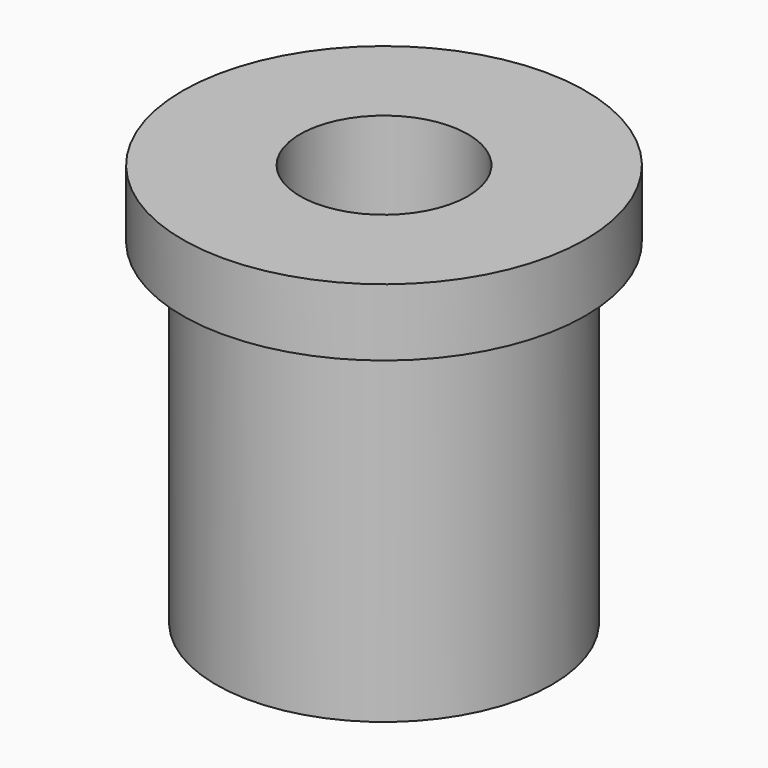
from build123d import *

# Parameters (mm, degrees)
SKETCH_R      = 5
SKETCH_R_2    = 2.5
PAD_DEPTH     = 10
SKETCH001_R   = 6
SKETCH001_R_2 = 2.5
PAD001_DEPTH  = 2


with BuildPart() as part:
    # Sketch → Pad (new body)
    with BuildSketch(Plane.XY):
        Circle(SKETCH_R)
        Circle(SKETCH_R_2, mode=Mode.SUBTRACT)
    extrude(amount=PAD_DEPTH)

    # Sketch001 (on Face4 of Pad) → Pad001 (join)
    with BuildSketch(Plane.XY.offset(10)):
        Circle(SKETCH001_R)
        Circle(SKETCH001_R_2, mode=Mode.SUBTRACT)
    extrude(amount=PAD001_DEPTH)


solid = part.part
